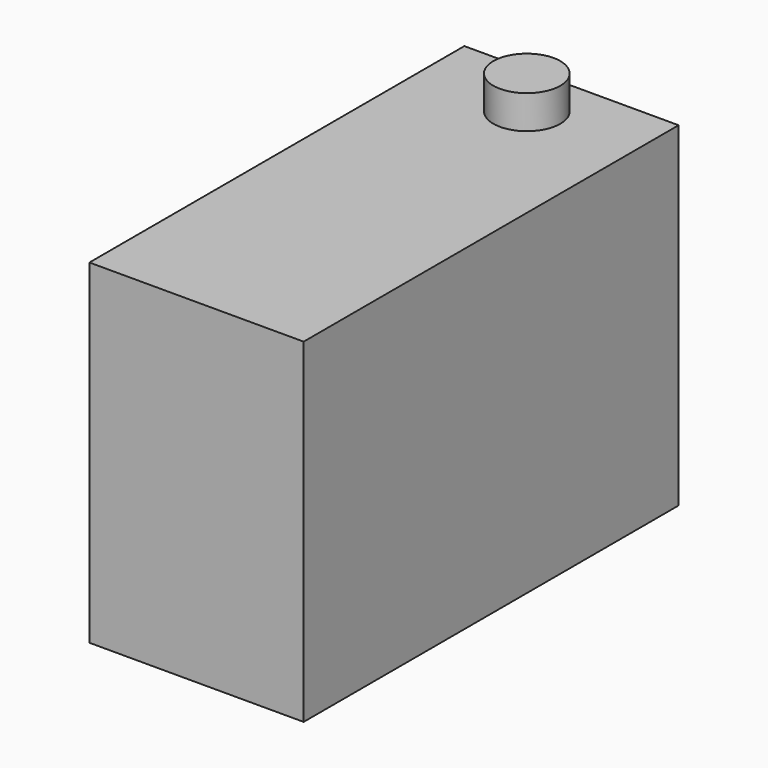
from build123d import *

# Parameters (mm, degrees)
SKETCH_W     = 19.2
SKETCH_H     = 42
PAD_DEPTH    = 30
SKETCH001_R  = 3
PAD001_DEPTH = 3


with BuildPart() as part:
    # Sketch → Pad (new body)
    with BuildSketch(Plane.XY):
        with Locations((9.6, 21)):
            Rectangle(SKETCH_W, SKETCH_H)
    extrude(amount=PAD_DEPTH)

    # Sketch001 (on Face6 of Pad) → Pad001 (join)
    with BuildSketch(Plane.XY.offset(30)):
        with Locations((9.6, 37)):
            Circle(SKETCH001_R)
    extrude(amount=PAD001_DEPTH)


solid = part.part
